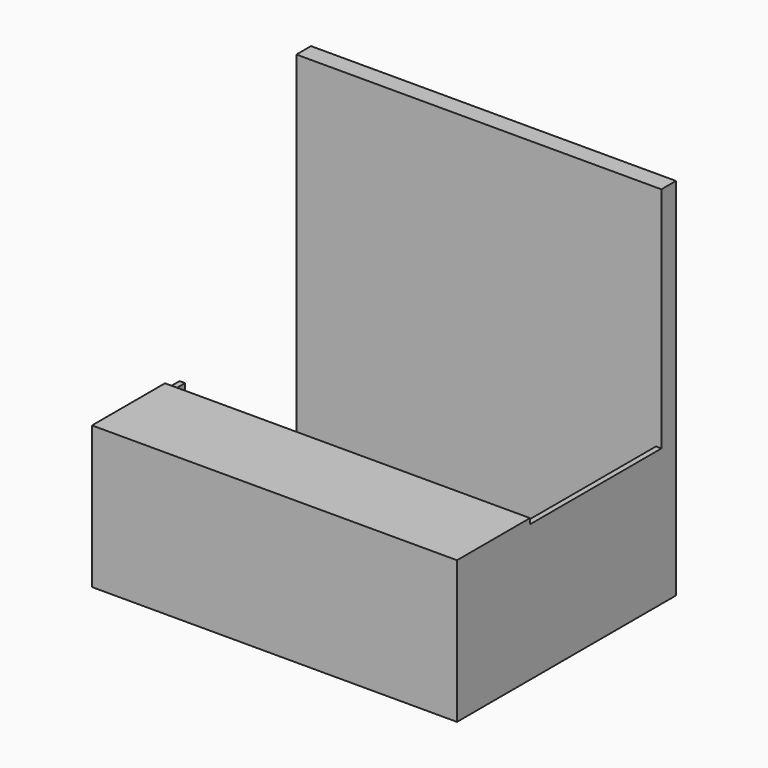
from build123d import *

# Parameters (mm, degrees)
F1_W     = 2000
F1_H     = 100
F2_DEPTH = 2000
F4_DEPTH = 750
F5_W     = 2000
F5_H     = 500
F6_DEPTH = 30


with BuildPart() as f2:
    # F1 (on Top) → F2 (new body)
    with BuildSketch(Plane.XY):
        with Locations((0, 700)):
            Rectangle(F1_W, F1_H)
    extrude(amount=F2_DEPTH)

    # F3 (on Top) → F4 (join)
    with BuildSketch(Plane.XY):
        Polygon((1000, -750), (1000, 750), (970, 750), (970, -720), (-970, -720), (-970, -150), (-1000, -150), (-1000, -750), align=None)
    extrude(amount=F4_DEPTH)

    # F5 (on face) → F6 (join)
    with BuildSketch(Plane.XY.offset(750)):
        with Locations((0, -500)):
            Rectangle(F5_W, F5_H)
    extrude(amount=F6_DEPTH)


with BuildPart() as f7_1:
    # F7: instance of F2
    add(f2.part.mirror(Plane.YZ))


solid = f2.part
